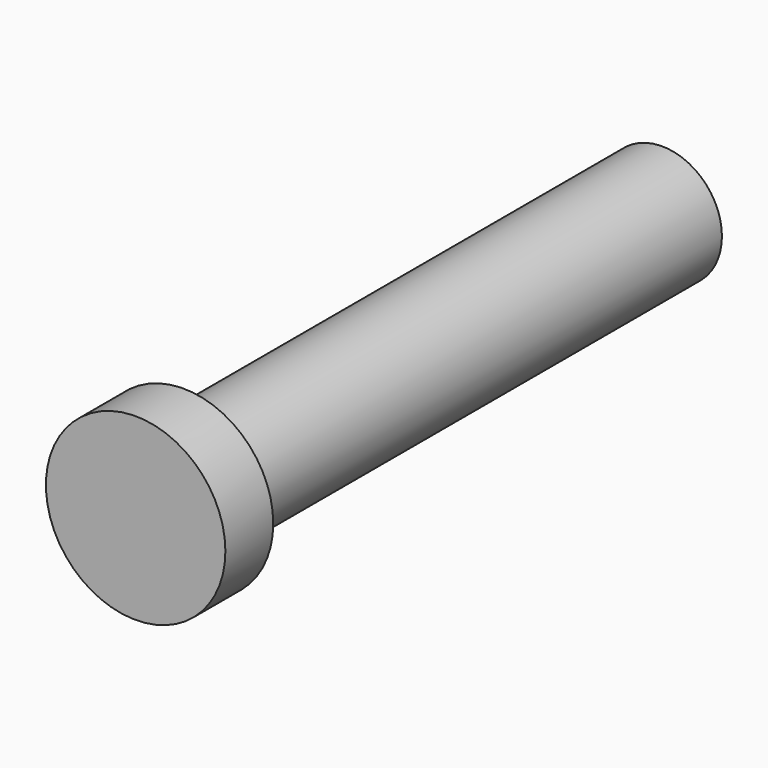
from build123d import *

# Parameters (mm, degrees)
F0_R     = 12.7
F1_DEPTH = 127
F2_R     = 19.05
F2_R_2   = 12.7
F3_DEPTH = 12.7


with BuildPart() as f1:
    # F0 (on Front) → F1 (new body)
    with BuildSketch(Plane.XZ):
        Circle(F0_R)
    extrude(amount=F1_DEPTH)

    # F2 (on face) → F3 (join)
    with BuildSketch(Plane.XZ.offset(127)):
        Circle(F2_R)
        Circle(F2_R_2, mode=Mode.SUBTRACT)
        Circle(F2_R_2)
    extrude(amount=F3_DEPTH)


solid = f1.part
